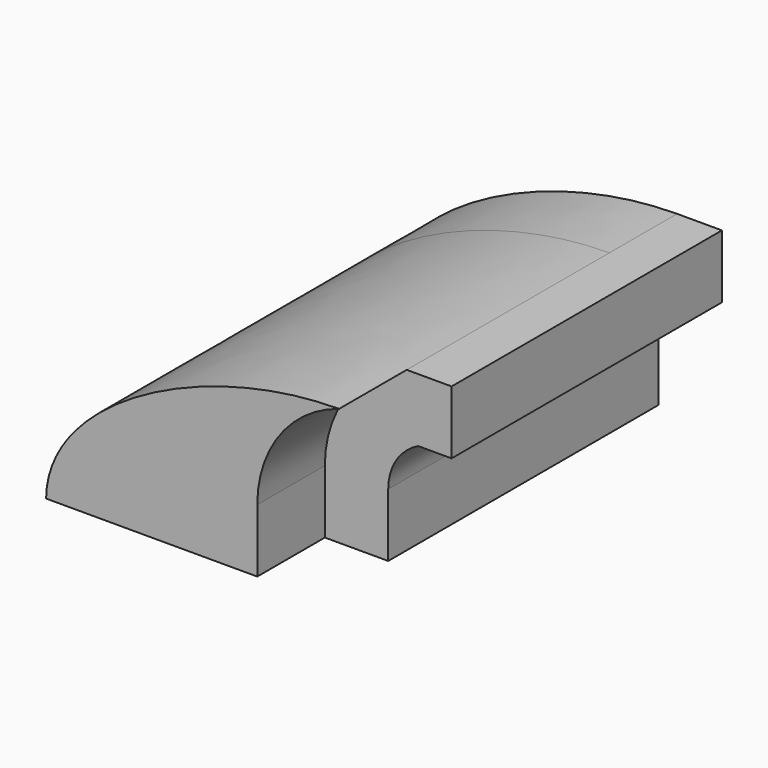
from build123d import *

# Parameters (mm, degrees)
F1_DEPTH = 25.4
F2_DEPTH = 101.6
F3_DEPTH = 101.6


with BuildPart() as f1:
    # F0 (on Front) → F1 (new body)
    with BuildSketch(Plane.XZ):
        with BuildLine():
            add(Edge.make_bspline(
                [(-41.275, 9.525), (-40.990595, 37.692979), (6.090595, 61.794065), (46.830385, 61.9252)],
                knots=[0, 0, 0, 0, 102.510194, 102.510194, 102.510194, 102.510194], degree=3))
            Line((-41.275, 9.525), (22.225, 9.525))
            Line((22.225, 9.525), (22.225, 28.559631))
            ThreePointArc((22.225, 28.559631), (29.041566, 49.288151), (46.830385, 61.9252))
        make_face()
    extrude(amount=F1_DEPTH)

    # F1_face (on face) → F2 (join)
    with BuildSketch(Plane(origin=(-1.16305, -25.4, 31.053726), x_dir=(1, 0, 0), z_dir=(0, -1, 0))):
        with BuildLine():
            add(Edge.make_bspline(
                [(-40.11195, -21.528726), (-39.827545, 6.639253), (7.253645, 30.740339), (47.993435, 30.871474)],
                knots=[0, 0, 0, 0, 102.510194, 102.510194, 102.510194, 102.510194], degree=3))
            Line((-40.11195, -21.528726), (23.38805, -21.528726))
            Line((23.38805, -21.528726), (23.38805, -2.494095))
            ThreePointArc((23.38805, -2.494095), (30.204616, 18.234425), (47.993435, 30.871474))
        make_face()
    extrude(amount=F2_DEPTH)

    # F0 (on Front) → F3 (join)
    with BuildSketch(Plane.XZ):
        with BuildLine():
            Line((22.225, 28.559631), (22.225, 9.525))
            Line((22.225, 9.525), (41.275, 9.525))
            Line((41.275, 9.525), (41.275, 28.559631))
            ThreePointArc((41.275, 28.559631), (43.716053, 37.018041), (50.288505, 42.8752))
            Line((50.288505, 42.8752), (60.325, 42.8752))
            Line((60.325, 42.8752), (60.325, 61.9252))
            Line((60.325, 61.9252), (46.830385, 61.9252))
            ThreePointArc((46.830385, 61.9252), (29.041566, 49.288151), (22.225, 28.559631))
        make_face()
    extrude(amount=F3_DEPTH)


solid = f1.part
